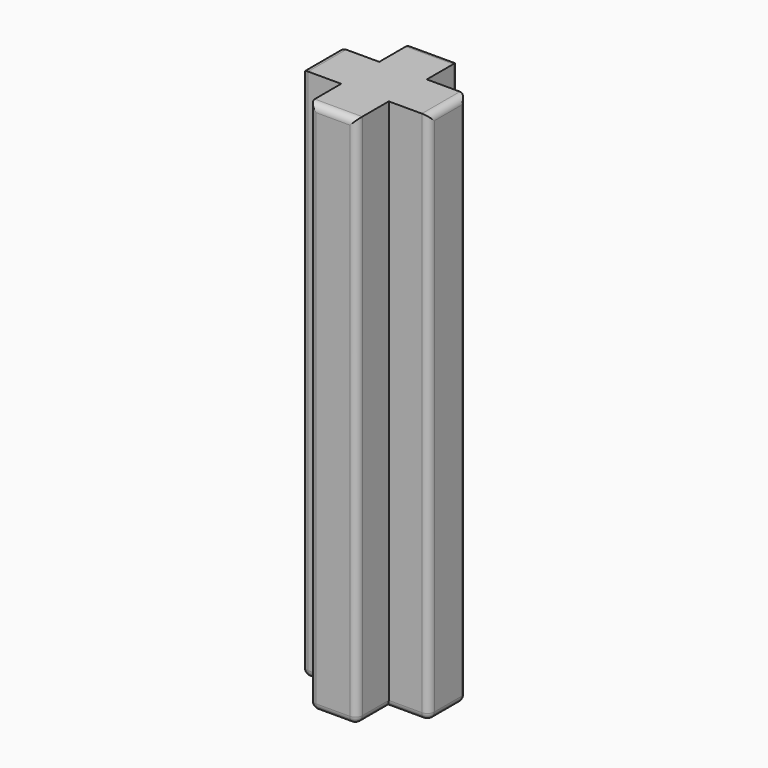
from build123d import *

# Parameters (mm, degrees)
F1_DEPTH = 19.685
F2_R     = 0.254


with BuildPart() as f1:
    # F0 (on Top) → F1 (new body)
    with BuildSketch(Plane.XY):
        Polygon((-2.3495, 0.8763), (-2.3495, 0), (-2.3495, -0.8763), (-0.8763, -0.8763), (-0.8763, -2.3495), (0, -2.3495), (0.8763, -2.3495), (0.8763, -0.8763), (2.3495, -0.8763), (2.3495, 0), (2.3495, 0.8763), (0.8763, 0.8763), (0.8763, 2.3495), (0, 2.3495), (-0.8763, 2.3495), (-0.8763, 0.8763), align=None)
    extrude(amount=F1_DEPTH)

    # F2
    f2_edges = [f1.edges().sort_by_distance(p)[0] for p in [
        (-1.6129, 0.8763, 0),
        (-2.3495, 0, 0),
        (-1.6129, -0.8763, 0),
        (-0.8763, -1.6129, 0),
        (0, -2.3495, 0),
        (0.8763, -1.6129, 0),
        (1.6129, -0.8763, 0),
        (2.3495, 0, 0),
        (1.6129, 0.8763, 0),
        (0.8763, 1.6129, 0),
        (0, 2.3495, 0),
        (-0.8763, 1.6129, 0),
        (-2.3495, 0.8763, 9.8425),
        (-2.3495, 0, 19.685),
        (-2.3495, -0.8763, 9.8425),
        (0.8763, 2.3495, 9.8425),
        (0, 2.3495, 19.685),
        (-0.8763, 2.3495, 9.8425),
        (2.3495, -0.8763, 9.8425),
        (2.3495, 0, 19.685),
        (2.3495, 0.8763, 9.8425),
        (-0.8763, -2.3495, 9.8425),
        (0, -2.3495, 19.685),
        (0.8763, -2.3495, 9.8425),
    ]]
    fillet(f2_edges, radius=F2_R)


solid = f1.part
